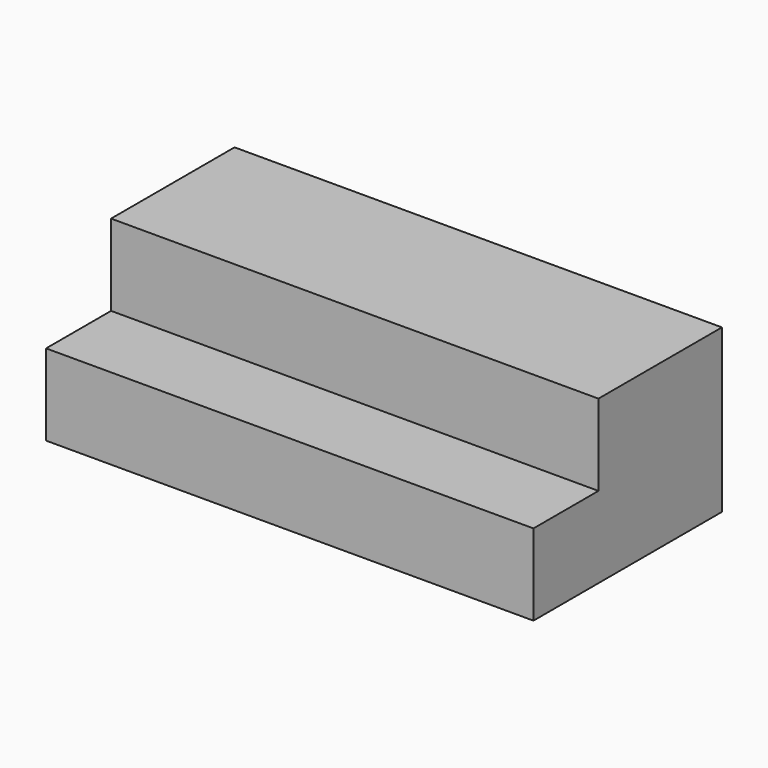
from build123d import *

# Parameters (mm, degrees)
F0_W     = 152.4
F0_H     = 25.4
F1_DEPTH = 73.66
F2_W     = 152.4
F2_H     = 25.4
F3_DEPTH = 25.4


with BuildPart() as f1:
    # F0 (on Front) → F1 (new body)
    with BuildSketch(Plane.XZ):
        with Locations((-0.644141, 38.1)):
            Rectangle(F0_W, F0_H)
        with Locations((-0.644141, 12.7)):
            Rectangle(F0_W, F0_H)
    extrude(amount=F1_DEPTH)

    # F2 (on face) → F3 (cut)
    with BuildSketch(Plane.XY.offset(50.8)):
        with Locations((-0.644141, -60.96)):
            Rectangle(F2_W, F2_H)
    extrude(amount=-F3_DEPTH, mode=Mode.SUBTRACT)


solid = f1.part
